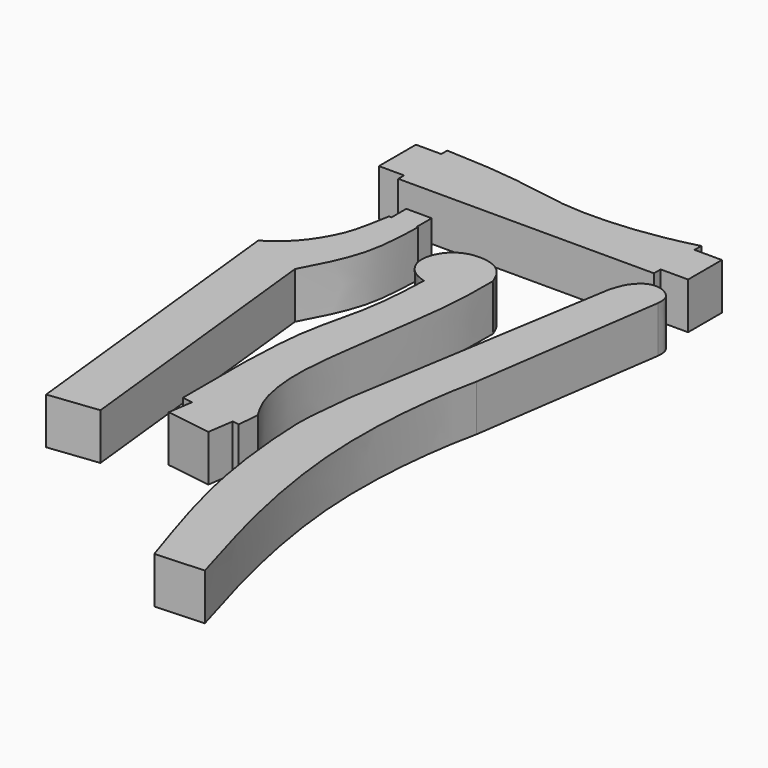
from build123d import *

# Parameters (mm, degrees)
F1_DEPTH = 70
F5_DEPTH = 70
F6_DEPTH = 70
F7_DEPTH = 70


with BuildPart() as f1:
    # F0 (on Top) → F1 (new body)
    with BuildSketch(Plane.XY):
        with BuildLine():
            Line((0, -80.8369506478), (0, -17.0763648719))
            Line((0, -17.0763648719), (-41.275, -17.0763648719))
            Line((-41.275, -17.0763648719), (-41.275, -4.3763648719))
            add(Edge.make_bspline(
                [(-426.72, -1.2536168797), (-306.9792187663, -4.8540736601), (-252.8019208578, -30.7704452863), (-116.174750468, -23.9821132962), (-41.275, -4.3763648719)],
                knots=[0, 0, 0, 0, 0.5033484163, 1, 1, 1, 1], degree=3))
            Line((-426.72, -1.2536168797), (-426.72, -12.5568046654))
            Line((-426.72, -12.5568046654), (-464.82, -12.5568046654))
            Line((-464.82, -12.5568046654), (-464.8199992132, -82.4068046654))
            Line((-464.8199992132, -82.4068046654), (-426.72, -82.4068046654))
            Line((-426.72, -82.4068046654), (-426.72, -93.5369506478))
            Line((-426.72, -93.5369506478), (-41.275, -93.5369506478))
            Line((-41.275, -93.5369506478), (-41.275, -80.8369506478))
            Line((-41.275, -80.8369506478), (0, -80.8369506478))
        make_face()
    extrude(amount=F1_DEPTH)


with BuildPart() as f5:
    # F4 (on Top) → F5 (new body)
    with BuildSketch(Plane.XY):
        with BuildLine():
            add(Edge.make_bspline(
                [(-122.6474046707, -564.7638440132), (-125.2207719505, -588.1214450197), (-129.7239006189, -628.9948498946), (-130.2446044737, -665.3998124801), (-123.6550065599, -752.860146017), (-103.8626584793, -866.2670547327), (-71.3538788225, -965.6552130056), (-53.7897534668, -1019.3535089493)],
                knots=[0, 0, 0, 0, 0.1714343031, 0.2999924383, 0.4945794726, 0.726927015, 1, 1, 1, 1], degree=3))
            Line((-53.7897534668, -1019.3535089493), (19.3095318973, -1015.4951810837))
            add(Edge.make_bspline(
                [(19.3095318973, -1015.4951810837), (3.5023515074, -962.8189042984), (-27.7601855053, -857.3367838343), (-54.9150007121, -693.7287526118), (-51.4161941333, -555.9076583898), (-40.0048601129, -477.1224978312), (-31.9047160447, -439.3770694733)],
                knots=[0, 0, 0, 0, 0.2668561673, 0.5336319067, 0.77620599, 1, 1, 1, 1], degree=3))
            Line((-31.9047160447, -439.3770694733), (9.8597547039, -150.0941514969))
            add(Edge.make_bspline(
                [(9.8597547039, -150.0941514969), (10.054987464, -146.8694243337), (10.4623393048, -140.1345000197), (6.8682018469, -128.222677129), (-10.1124407795, -116.7968467644), (-31.3320399103, -117.0829821984), (-47.7479860951, -134.1869515337), (-51.7660707931, -143.1547142728), (-56.5981976688, -158.7018221617)],
                knots=[0, 0, 0, 0, 0.1241830915, 0.2596570039, 0.4341317578, 0.6117348373, 0.7875031625, 1, 1, 1, 1], degree=3))
            Line((-56.5981976688, -158.7018221617), (-122.6474046707, -564.7638440132))
        make_face()
    extrude(amount=F5_DEPTH)


with BuildPart() as f6:
    # F2 (on Top) → F6 (new body)
    with BuildSketch(Plane.XY):
        with BuildLine():
            Line((-457.1660161018, -319.3023993452), (-406.9436192513, -781.7666127165))
            Line((-406.9436192513, -781.7666127165), (-331.909507513, -773.0849577864))
            Line((-331.909507513, -773.0849577864), (-378.0133426189, -349.0461005648))
            add(Edge.make_bspline(
                [(-378.0133426189, -349.0461005648), (-363.287199279, -321.4582734772), (-334.0107736625, -266.6120758675), (-332.3012115062, -205.556240959), (-331.4515650272, -175.2117021759)],
                knots=[0, 0, 0, 0, 0.5030034586, 1, 1, 1, 1], degree=3))
            Line((-331.4515650272, -175.2117021759), (-333.2745730877, -175.2117021759))
            Line((-333.2745730877, -175.2117021759), (-333.2745730877, -147.3453982552))
            Line((-333.2745730877, -147.3453982552), (-371.5581893921, -147.3453982552))
            Line((-371.5581893921, -147.3453982552), (-371.5581893921, -175.2117021759))
            Line((-371.5581893921, -175.2117021759), (-375.4646778107, -175.2117021759))
            add(Edge.make_bspline(
                [(-457.1660161018, -319.3023993452), (-425.2507984638, -301.1343671759), (-389.7742344375, -248.4986877124), (-382.9227387905, -219.1031916817), (-375.4646778107, -175.2117021759)],
                knots=[0, 0, 0, 0, 0.5132222227, 1, 1, 1, 1], degree=3))
        make_face()
        with BuildLine():
            Line((-457.1660161018, -319.3023993452), (-406.9436192513, -781.7666127165))
            Line((-406.9436192513, -781.7666127165), (-331.909507513, -773.0849577864))
            Line((-331.909507513, -773.0849577864), (-378.0133426189, -349.0461005648))
            add(Edge.make_bspline(
                [(-378.0133426189, -349.0461005648), (-363.287199279, -321.4582734772), (-334.0107736625, -266.6120758675), (-332.3012115062, -205.556240959), (-331.4515650272, -175.2117021759)],
                knots=[0, 0, 0, 0, 0.5030034586, 1, 1, 1, 1], degree=3))
            Line((-331.4515650272, -175.2117021759), (-333.2745730877, -175.2117021759))
            Line((-333.2745730877, -175.2117021759), (-333.2745730877, -147.3453982552))
            Line((-333.2745730877, -147.3453982552), (-371.5581893921, -147.3453982552))
            Line((-371.5581893921, -147.3453982552), (-371.5581893921, -175.2117021759))
            Line((-371.5581893921, -175.2117021759), (-375.4646778107, -175.2117021759))
            add(Edge.make_bspline(
                [(-457.1660161018, -319.3023993452), (-425.2507984638, -301.1343671759), (-389.7742344375, -248.4986877124), (-382.9227387905, -219.1031916817), (-375.4646778107, -175.2117021759)],
                knots=[0, 0, 0, 0, 0.5132222227, 1, 1, 1, 1], degree=3))
        make_face()
    extrude(amount=F6_DEPTH)


with BuildPart() as f7:
    # F3 (on Top) → F7 (new body)
    with BuildSketch(Plane.XY):
        with BuildLine():
            Line((-198.3508691785, -736.9563750927), (-192.570263139, -698.1096932839))
            Line((-192.570263139, -698.1096932839), (-182.2459936058, -699.646003003))
            Line((-182.2459936058, -699.646003003), (-179.5019714315, -667.1954215657))
            add(Edge.make_bspline(
                [(-176.7223119652, -227.6458809327), (-176.5668190951, -252.3115382516), (-176.1922654752, -312.4950087519), (-204.7238971979, -485.055755701), (-211.4005836768, -570.2125064946), (-199.9751960664, -632.8872494954), (-185.9489787847, -656.6227252698), (-179.5019714315, -667.1954215657)],
                knots=[0, 0, 0, 0, 0.2005686368, 0.4895561474, 0.6959523, 0.8640715055, 0.9999700147, 0.9999700147, 0.9999700147, 0.9999700147], degree=3))
            add(Edge.make_bspline(
                [(-240.7775610602, -277.5602707814), (-247.7280476649, -275.2430077452), (-262.6842473417, -270.2566736012), (-281.869053969, -243.1155566289), (-270.6732085806, -206.1923384198), (-242.1178571449, -187.5442706078), (-203.595595518, -190.5107065704), (-184.376110688, -208.4373248487), (-179.185157985, -221.4649350246), (-176.7223119652, -227.6458809327)],
                knots=[0, 0, 0, 0, 0.1271694583, 0.2736458494, 0.4319132409, 0.5843211966, 0.7458980823, 0.8794414181, 1, 1, 1, 1], degree=3))
            add(Edge.make_bspline(
                [(-276.0719417483, -571.228868718), (-274.8657073732, -534.7203435732), (-272.5258652754, -463.9014498122), (-244.7365606276, -372.1927279718), (-242.0950778124, -309.0530369528), (-240.7775610602, -277.5602707814)],
                knots=[0, 0, 0, 0, 0.3478256902, 0.674709003, 1, 1, 1, 1], degree=3))
            Line((-276.0719417483, -571.228868718), (-276.0719417483, -687.4953368074))
            Line((-276.0719417483, -687.4953368074), (-260.5428447788, -689.8061542968))
            Line((-260.5428447788, -689.8061542968), (-266.0597776571, -726.8809064283))
            Line((-266.0597776571, -726.8809064283), (-198.3508691785, -736.9563750927))
        make_face()
    extrude(amount=F7_DEPTH)


solid = Compound([f1.part, f5.part, f6.part, f7.part])
